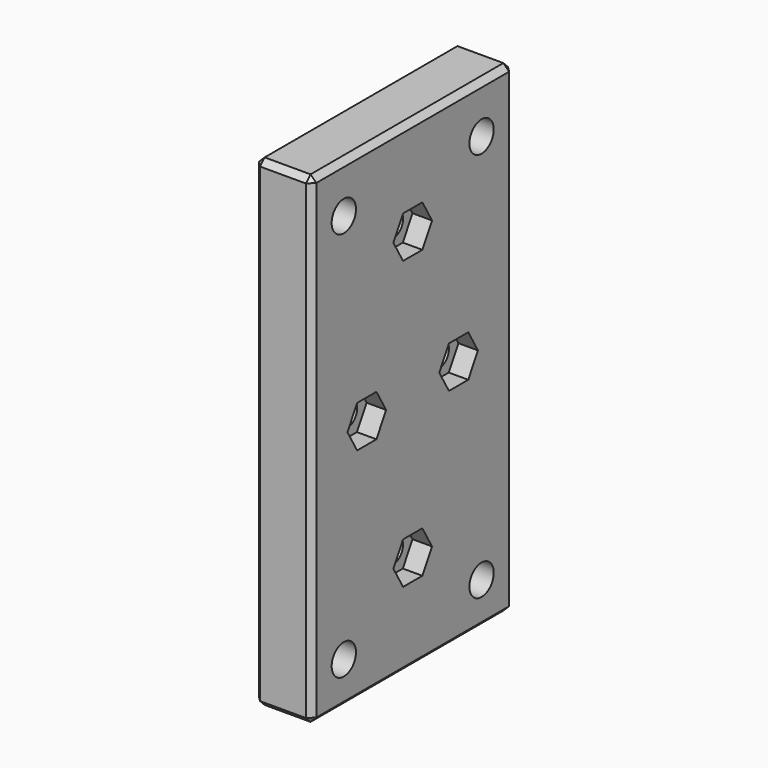
from build123d import *

# Parameters (mm, degrees)
CYLINDER014005946_R                                     = 2.65
CYLINDER014005946_DEPTH                                 = 10
CYLINDER014005947_R                                     = 2.65
CYLINDER014005947_DEPTH                                 = 10
CYLINDER014005948_R                                     = 2.65
CYLINDER014005948_DEPTH                                 = 10
CYLINDER014005949_R                                     = 4.3
CYLINDER014005949_DEPTH                                 = 4.2
CYLINDER014005950_R                                     = 4.3
CYLINDER014005950_DEPTH                                 = 4.2
CYLINDER014005951_R                                     = 4.3
CYLINDER014005951_DEPTH                                 = 4.2
CYLINDER014005952_R                                     = 4.3
CYLINDER014005952_DEPTH                                 = 4.2
PRISM015_DEPTH                                          = 3.4
CYLINDER014005953_R                                     = 2.15
CYLINDER014005953_DEPTH                                 = 16
FUSION001089102007007003008034028016007_PLACEMENT_ANGLE = 90
CYLINDER014005945_R                                     = 2.65
CYLINDER014005945_DEPTH                                 = 10
BOX021003_W                                             = 10
BOX021003_H                                             = 44
BOX021003_DEPTH                                         = 84
CHAMFER018_SIZE                                         = 1


with BuildPart() as obj1:
    # Cylinder014005946 → Cylinder014005946 (new body)
    with BuildSketch(Plane(origin=(0, 15, 7.5), x_dir=(0, 0, -1), z_dir=(1, 0, 0))):
        Circle(CYLINDER014005946_R)
    extrude(amount=CYLINDER014005946_DEPTH)


with BuildPart() as obj2:
    # Cylinder014005947 → Cylinder014005947 (new body)
    with BuildSketch(Plane(origin=(0, -15, 75.5), x_dir=(0, 0, -1), z_dir=(1, 0, 0))):
        Circle(CYLINDER014005947_R)
    extrude(amount=CYLINDER014005947_DEPTH)


with BuildPart() as obj3:
    # Cylinder014005948 → Cylinder014005948 (new body)
    with BuildSketch(Plane(origin=(0, 15, 75.5), x_dir=(0, 0, -1), z_dir=(1, 0, 0))):
        Circle(CYLINDER014005948_R)
    extrude(amount=CYLINDER014005948_DEPTH)


with BuildPart() as obj4:
    # Cylinder014005949 → Cylinder014005949 (new body)
    with BuildSketch(Plane(origin=(0, -15, 7.5), x_dir=(0, 0, -1), z_dir=(1, 0, 0))):
        Circle(CYLINDER014005949_R)
    extrude(amount=CYLINDER014005949_DEPTH)


with BuildPart() as obj5:
    # Cylinder014005950 → Cylinder014005950 (new body)
    with BuildSketch(Plane(origin=(0, 15, 7.5), x_dir=(0, 0, -1), z_dir=(1, 0, 0))):
        Circle(CYLINDER014005950_R)
    extrude(amount=CYLINDER014005950_DEPTH)


with BuildPart() as obj6:
    # Cylinder014005951 → Cylinder014005951 (new body)
    with BuildSketch(Plane(origin=(0, -15, 75.5), x_dir=(0, 0, -1), z_dir=(1, 0, 0))):
        Circle(CYLINDER014005951_R)
    extrude(amount=CYLINDER014005951_DEPTH)


with BuildPart() as obj7:
    # Cylinder014005952 → Cylinder014005952 (new body)
    with BuildSketch(Plane(origin=(0, 15, 75.5), x_dir=(0, 0, -1), z_dir=(1, 0, 0))):
        Circle(CYLINDER014005952_R)
    extrude(amount=CYLINDER014005952_DEPTH)


with BuildPart() as m4x007:
    # prism015 → prism015 (new body)
    with BuildSketch(Plane(origin=(0, 0, 0), x_dir=(0, 1, 0), z_dir=(0, 0, 1))):
        Polygon((4.21, 0), (2.105, 3.645967), (-2.105, 3.645967), (-4.21, 0), (-2.105, -3.645967), (2.105, -3.645967), align=None)
    extrude(amount=PRISM015_DEPTH)


with BuildPart() as m4nut025:
    # Cylinder014005953 → Cylinder014005953 (new body)
    with BuildSketch(Plane.XY):
        Circle(CYLINDER014005953_R)
    extrude(amount=CYLINDER014005953_DEPTH)

    # Fusion001089102007007003008034028016007: union M4X007
    add(m4x007.part)


with BuildPart() as m4nut025_1:
    # Fusion001089102007007003008034028016007 placement: moved
    add(m4nut025.part.moved(Location((10, 0, 42))).rotate(Axis((10, 0, 42), (0, -1, 0)), FUSION001089102007007003008034028016007_PLACEMENT_ANGLE))


with BuildPart() as m4nut026:
    # Fusion001089102007007003008034028016007001 base: copy of M4nut025
    add(m4nut025_1.part)


with BuildPart() as m4nut026_1:
    # Fusion001089102007007003008034028016007001 placement: moved
    add(m4nut026.part.moved(Location((0, 10, 1))))


with BuildPart() as m4nut027:
    # Fusion001089102007007003008034028016007002 base: copy of M4nut025
    add(m4nut025_1.part)


with BuildPart() as m4nut027_1:
    # Fusion001089102007007003008034028016007002 placement: moved
    add(m4nut027.part.moved(Location((0, -10, 0))))


with BuildPart() as m4nut029:
    # Fusion001089102007007003008034028016007004 base: copy of M4nut025
    add(m4nut025_1.part)


with BuildPart() as m4nut029_1:
    # Fusion001089102007007003008034028016007004 placement: moved
    add(m4nut029.part.moved(Location((0, 0, -25))))


with BuildPart() as m4nut028:
    # Fusion001089102007007003008034028016007003 base: copy of M4nut025
    add(m4nut025_1.part)


with BuildPart() as m4nut028_1:
    # Fusion001089102007007003008034028016007003 placement: moved
    add(m4nut028.part.moved(Location((0, 0, 25))))


with BuildPart() as fusion001089102007007003008034028016006:
    # Cylinder014005945 → Cylinder014005945 (new body)
    with BuildSketch(Plane(origin=(0, -15, 7.5), x_dir=(0, 0, -1), z_dir=(1, 0, 0))):
        Circle(CYLINDER014005945_R)
    extrude(amount=CYLINDER014005945_DEPTH)

    # Fusion001089102007007003008034028016006: union obj1, obj2, obj3, obj4, obj5, obj6, obj7, M4nut026, M4nut027, M4nut029, M4nut028
    add(obj1.part)
    add(obj2.part)
    add(obj3.part)
    add(obj4.part)
    add(obj5.part)
    add(obj6.part)
    add(obj7.part)
    add(m4nut026_1.part)
    add(m4nut027_1.part)
    add(m4nut029_1.part)
    add(m4nut028_1.part)


with BuildPart() as chamfer018:
    # Box021003 → Box021003 (new body)
    with BuildSketch(Plane(origin=(0, -22, 0), x_dir=(1, 0, 0), z_dir=(0, 0, 1))):
        with Locations((5, 22)):
            Rectangle(BOX021003_W, BOX021003_H)
    extrude(amount=BOX021003_DEPTH)

    # Cut009003003009003003003007003002002: cut Fusion001089102007007003008034028016006
    add(fusion001089102007007003008034028016006.part, mode=Mode.SUBTRACT)

    # Chamfer018
    chamfer018_edges = [chamfer018.edges().sort_by_distance(p)[0] for p in [
        (0, -22, 42),
        (0, 0, 84),
        (0, 0, 0),
        (0, 22, 42),
        (5, -22, 0),
        (10, -22, 42),
        (5, -22, 84),
        (5, 22, 84),
        (10, 0, 84),
        (5, 22, 0),
        (10, 0, 0),
        (10, 22, 42),
    ]]
    chamfer(chamfer018_edges, length=CHAMFER018_SIZE)


solid = chamfer018.part
